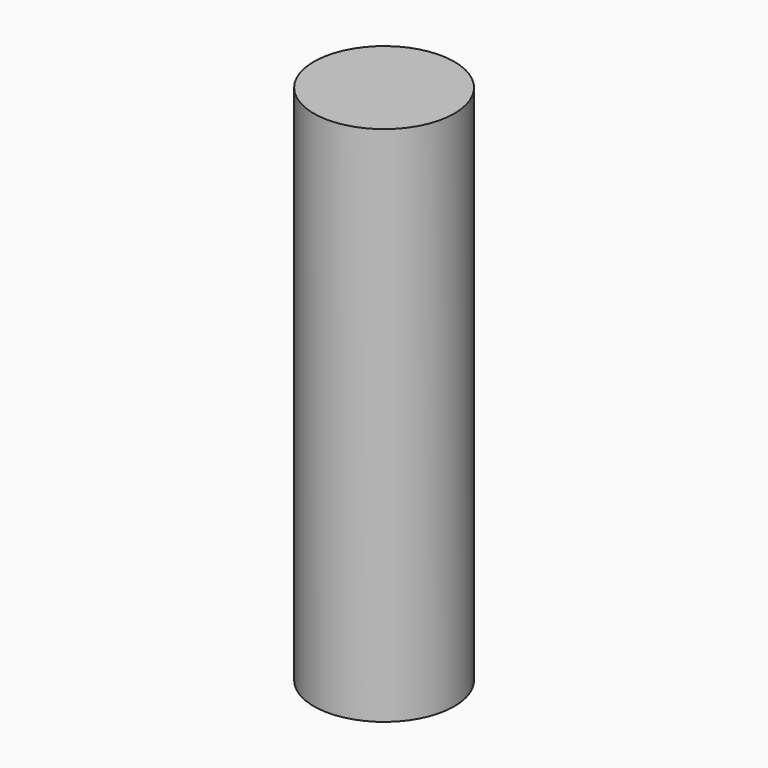
from build123d import *

# Parameters (mm, degrees)
CYLINDER_R     = 2.0193
CYLINDER_DEPTH = 15


with BuildPart() as part:
    # Cylinder → Cylinder (new body)
    with BuildSketch(Plane.XY.offset(-2.5)):
        Circle(CYLINDER_R)
    extrude(amount=CYLINDER_DEPTH)


solid = part.part
